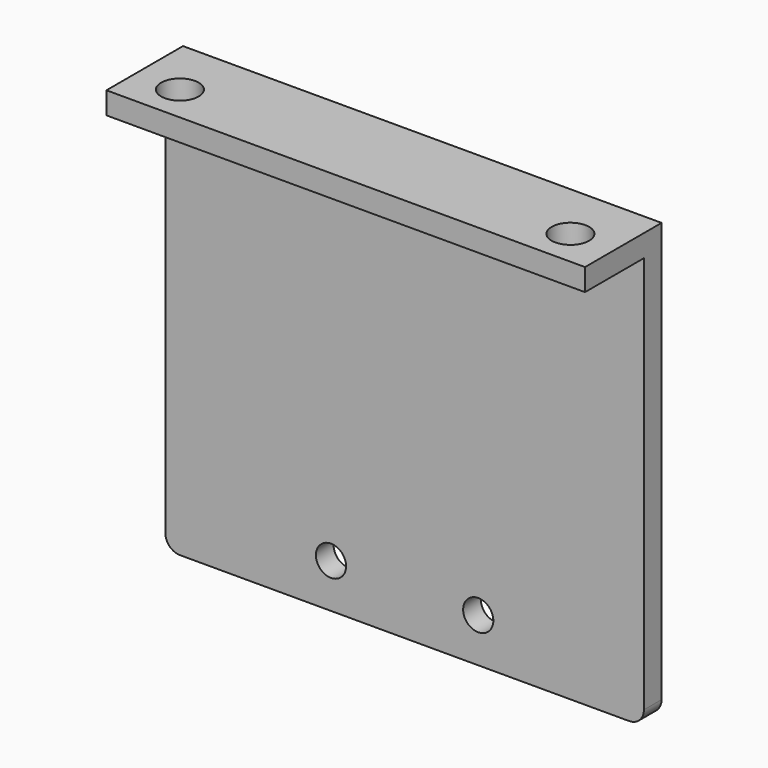
from build123d import *

# Parameters (mm, degrees)
F0_W     = 65
F0_H     = 59
F1_DEPTH = 3
F2_W     = 65
F2_H     = 3
F3_DEPTH = 10
F4_R     = 2.55
F5_DEPTH = 25
F6_R     = 2.05
F7_DEPTH = 25
F8_R     = 2


with BuildPart() as f1:
    # F0 (on Front) → F1 (new body)
    with BuildSketch(Plane.XZ):
        with Locations((32.5, -29.5)):
            Rectangle(F0_W, F0_H)
    extrude(amount=F1_DEPTH)

    # F2 (on face) → F3 (join)
    with BuildSketch(Plane.XZ.offset(3)):
        with Locations((32.5, -1.5)):
            Rectangle(F2_W, F2_H)
    extrude(amount=F3_DEPTH)

    # F4 (on face) → F5 (cut)
    with BuildSketch(Plane.XY):
        with Locations((59.0165, -8)):
            Circle(F4_R)
        with Locations((5.9835, -8)):
            Circle(F4_R)
    extrude(amount=-F5_DEPTH, mode=Mode.SUBTRACT)

    # F6 (on face) → F7 (cut)
    with BuildSketch(Plane(origin=(0, 0, 0), x_dir=(-1, 0, 0), z_dir=(0, 1, 0))):
        with Locations((-42.5, -53)):
            Circle(F6_R)
        with Locations((-22.5, -53)):
            Circle(F6_R)
    extrude(amount=-F7_DEPTH, mode=Mode.SUBTRACT)

    # F8
    f8_edges = [f1.edges().sort_by_distance(p)[0] for p in [
        (65, -1.5, -59),
        (0, -1.5, -59),
    ]]
    fillet(f8_edges, radius=F8_R)


solid = f1.part
